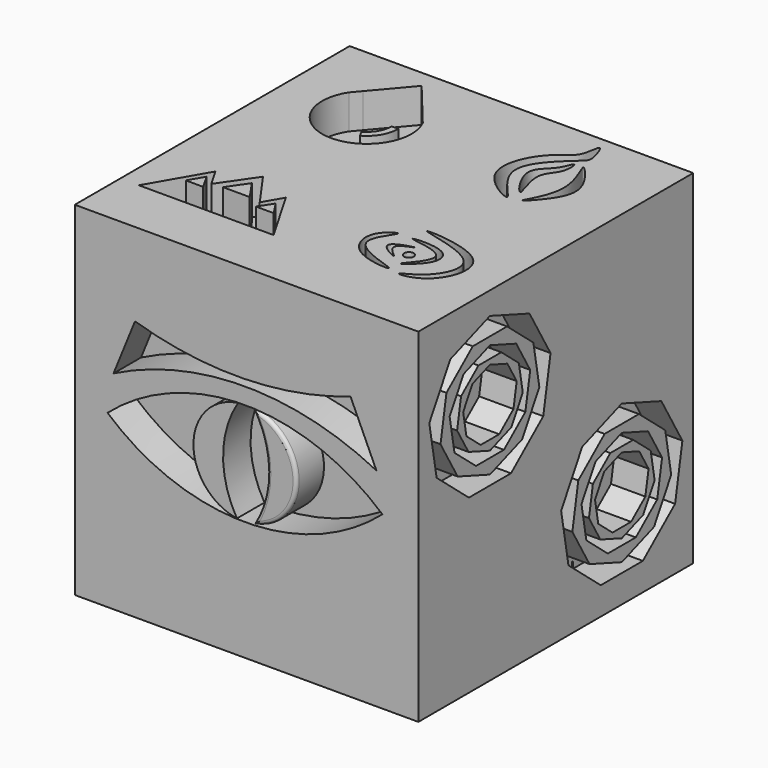
from build123d import *

# Parameters (mm, degrees)
F0_W      = 25.4
F0_H      = 25.4
F1_DEPTH  = 25.4
F3_DEPTH  = 2.54
F4_DEPTH  = 2.54
F5_R      = 3.175
F6_DEPTH  = 2.54
F7_DEPTH  = 2.54
F8_DEPTH  = 2.54
F5_R_2    = 3.8354623695
F9_DEPTH  = 2.54
F11_DEPTH = 2.54
F12_DEPTH = 2.54
F13_DEPTH = 2.54
F14_DEPTH = 2.54
F15_DEPTH = 2.54
F10_R     = 0.3534196101
F16_DEPTH = 2.54
F18_DEPTH = 2.54
F20_DEPTH = 2.54
F22_DEPTH = 2.54
F23_R     = 0.254


with BuildPart() as f1:
    # F0 (on Front) → F1 (new body)
    with BuildSketch(Plane.XZ):
        Rectangle(F0_W, F0_H)
    extrude(amount=F1_DEPTH)

    # F2 (on face) → F3 (cut)
    with BuildSketch(Plane.YZ.offset(12.7)):
        Polygon((-0.9988434482, -4.3171069854), (-2.9462418803, -0.9474646032), (-6.604, 0.3820676357), (-10.2606121317, -0.9506131794), (-12.2051088204, -4.321930884), (-11.5276384544, -8.1544084569), (-8.5451969476, -10.6547870462), (-4.6533018266, -10.6531117234), (-1.6730140731, -8.1501663908), align=None)
        Polygon((-8.1897779916, -0.949721759), (-5.0170760203, -0.9483560237), (-2.5857674278, -2.9866833261), (-2.0334885255, -6.1109476679), (-3.6186567497, -8.8592710414), (-6.5995542708, -9.9456823955), (-9.5813860101, -8.8618377847), (-11.1689197574, -6.1148801464), (-10.6193308286, -2.9901414893), align=None, mode=Mode.SUBTRACT)
        Polygon((-4.172366957, -2.4099816539), (-6.6031784625, -1.5264234312), (-6.6038436171, -1.526665852), (-6.6074442518, -1.5279781314), (-9.0337940318, -2.4122802356), (-10.325957683, -4.6514141043), (-9.8767852143, -7.1949254412), (-7.893896507, -8.8592710414), (-7.8930050053, -8.8592710414), (-7.8881778189, -8.8592710414), (-5.3059509261, -8.8592710414), (-3.3262265886, -7.1966323297), (-2.8781975889, -4.6493220377), align=None)
        Polygon((-9.2700824385, -3.764150734), (-7.6603936299, -2.4122802356), (-5.547215697, -2.4122802356), (-3.9319857353, -3.766087815), (-3.5655550782, -5.8412635472), (-4.6188241383, -7.6677295897), (-6.5987936476, -8.3893449222), (-8.5809747858, -7.6688561309), (-9.6340741167, -5.8466465206), align=None, mode=Mode.SUBTRACT)
        Polygon((-4.986011531, -3.3833646389), (-6.6037753749, -2.7959447494), (-8.2176738225, -3.3819935796), (-9.0744246758, -4.8728104899), (-8.7756506165, -6.5657603172), (-7.4592392364, -7.6685371927), (-5.7401615772, -7.6680484147), (-4.424286687, -6.5626436722), (-4.1264440975, -4.8707244605), align=None)
    extrude(amount=-F3_DEPTH, mode=Mode.SUBTRACT)

    # F2 (on face) → F4 (cut)
    with BuildSketch(Plane.YZ.offset(12.7)):
        Polygon((-13.183899352, 6.3368423997), (-15.1312977841, 9.7064847819), (-18.7890559038, 11.0360170208), (-22.4456680355, 9.7033362057), (-24.3901647241, 6.3320185012), (-23.7126943583, 2.4995409291), (-20.7302528514, -0.0008376612), (-16.8383577308, 0.0008376612), (-13.8580699769, 2.5037829943), align=None)
        Polygon((-20.3748338954, 9.7042276261), (-17.2021319241, 9.7055933615), (-14.7708233316, 7.6672660591), (-14.2185444293, 4.5430017172), (-15.8037126535, 1.7946783438), (-18.7846101748, 0.7082669894), (-21.7664419142, 1.7921116009), (-23.3539756613, 4.539069239), (-23.3532840046, 4.5430017172), (-22.8043867325, 7.6638078958), align=None, mode=Mode.SUBTRACT)
        Polygon((-16.3574228608, 8.2439677313), (-18.7882343663, 9.1275259539), (-21.2188499357, 8.2416691495), (-22.5110135869, 6.0025352809), (-22.0618411181, 3.4590239436), (-20.0789524111, 1.7946783438), (-17.4910068299, 1.7946783438), (-15.5112824924, 3.4573170554), (-15.0632534927, 6.0046273474), align=None)
        Polygon((-21.4551383425, 6.889798651), (-19.8454495338, 8.2416691495), (-17.7322716008, 8.2416691495), (-16.1170416391, 6.8878615701), (-15.750610982, 4.8126858379), (-16.8038800421, 2.9862197954), (-18.7838495514, 2.2646044629), (-20.7660306899, 2.9850932543), (-21.8191300208, 4.8073028646), align=None, mode=Mode.SUBTRACT)
        Polygon((-17.1710674348, 7.2705847461), (-18.7888312787, 7.8580046357), (-20.4027297266, 7.2719558054), (-21.2594805799, 5.7811388953), (-20.9607065207, 4.0881890681), (-19.6442951404, 2.9854121925), (-17.925217481, 2.9859009704), (-16.6093425908, 4.0913057129), (-16.3115000014, 5.7832249246), align=None)
    extrude(amount=-F4_DEPTH, mode=Mode.SUBTRACT)

    # F5 (on face) → F6 (cut)
    with BuildSketch(Plane(origin=(0, 0, 0), x_dir=(-1, 0, 0), z_dir=(0, 1, 0))):
        with Locations((0, -8.1695128638)):
            Circle(F5_R)
    extrude(amount=-F6_DEPTH, mode=Mode.SUBTRACT)

    # F5 (on face) → F7 (cut)
    with BuildSketch(Plane(origin=(0, 0, 0), x_dir=(-1, 0, 0), z_dir=(0, 1, 0))):
        with BuildLine():
            ThreePointArc((7.0750056766, -7.2597564319), (9.3200697069, -6.3298204622), (10.2500056766, -4.0847564319))
            ThreePointArc((10.2500056766, -4.0847564319), (9.3200697069, -1.8396924016), (7.0750056766, -0.9097564319))
            ThreePointArc((7.0750056766, -0.9097564319), (5.184344274, -4.0847564319), (7.0750056766, -7.2597564319))
        make_face()
    extrude(amount=-F7_DEPTH, mode=Mode.SUBTRACT)

    # F5 (on face) → F8 (cut)
    with BuildSketch(Plane(origin=(0, 0, 0), x_dir=(-1, 0, 0), z_dir=(0, 1, 0))):
        with BuildLine():
            ThreePointArc((7.0750056766, 0.9097564319), (9.3200697069, 1.8396924016), (10.2500056766, 4.0847564319))
            ThreePointArc((10.2500056766, 4.0847564319), (9.3200697069, 6.3298204622), (7.0750056766, 7.2597564319))
            ThreePointArc((7.0750056766, 7.2597564319), (8.6054638066, 4.0847564319), (7.0750056766, 0.9097564319))
        make_face()
        with BuildLine():
            ThreePointArc((-7.0750056766, 0.8936636506), (-8.8646672784, 4.0686636506), (-7.0750056766, 7.2436636506))
            ThreePointArc((-7.0750056766, 7.2436636506), (-10.2500056766, 4.0686636506), (-7.0750056766, 0.8936636506))
        make_face()
        with BuildLine():
            ThreePointArc((-7.0750056766, -7.2597564319), (-5.2999150329, -4.1864672676), (-7.0750056766, -1.1131781032))
            ThreePointArc((-7.0750056766, -1.1131781032), (-9.9541011254, -4.1864672676), (-7.0750056766, -7.2597564319))
        make_face()
    extrude(amount=-F8_DEPTH, mode=Mode.SUBTRACT)

    # F5 (on face) → F9 (cut)
    with BuildSketch(Plane(origin=(0, 0, 0), x_dir=(-1, 0, 0), z_dir=(0, 1, 0))):
        with Locations((0, 8.1695128638)):
            Circle(F5_R_2)
        with Locations((0, 8.1695128638)):
            Circle(F5_R, mode=Mode.SUBTRACT)
    extrude(amount=-F9_DEPTH, mode=Mode.SUBTRACT)

    # F10 (on face) → F11 (cut)
    with BuildSketch(Plane.XY.offset(12.7)):
        with BuildLine():
            Line((-8.5742528792, -3.9095280929), (-9.1202571541, -4.5530917385))
            ThreePointArc((-9.1202571541, -4.5530917385), (-6.5280201062, -9.6471977256), (-3.402375886, -4.8618077803))
            Line((-3.402375886, -4.8618077803), (-6.3491808251, -1.2868829072))
            Line((-6.3491808251, -1.2868829072), (-8.5742528792, -3.9095280929))
        make_face()
        with BuildLine():
            ThreePointArc((-4.0412939084, -6.3170021305), (-4.3535194393, -7.5098612191), (-5.2351171584, -8.3719418702))
            Line((-5.2351171584, -8.3719418702), (-5.4763173684, -7.9345032573))
            ThreePointArc((-5.4763173684, -7.9345032573), (-4.7854496051, -7.2589301264), (-4.5407727536, -6.3241410807))
            Line((-4.5407727536, -6.3241410807), (-4.0412939084, -6.3170021305))
        make_face(mode=Mode.SUBTRACT)
    extrude(amount=-F11_DEPTH, mode=Mode.SUBTRACT)

    # F10 (on face) → F12 (cut)
    with BuildSketch(Plane.XY.offset(12.7)):
        with BuildLine():
            add(Edge.make_bspline(
                [(6.514266599, -0.9208151023), (6.6513439889, -0.9255017563), (7.1492502014, -2.3344412071), (6.7594164358, -2.878313805), (2.7249754591, -6.0546008485), (7.8622512235, -10.1298406612), (2.4928082434, -7.3722109586), (4.5535934423, -3.1437904049), (6.3872404116, -2.6017871461), (6.3794980054, -0.9162073856), (6.514266599, -0.9208151023)],
                knots=[0, 0, 0, 0, 0.0952079057, 0.1692414801, 0.3357573904, 0.4861077215, 0.6286645245, 0.7915739584, 0.9063956824, 1, 1, 1, 1], degree=3))
        make_face()
        with BuildLine():
            add(Edge.make_bspline(
                [(8.512143977, -4.893663805), (8.9388105632, -5.6736196043), (9.0132466349, -6.9990279037), (6.2070254712, -9.9360935973), (8.9251386334, -6.298840501), (6.5095713718, -2.3583029402), (8.1212905119, -4.17917517), (8.512143977, -4.893663805)],
                knots=[0, 0, 0, 0, 0.194160521, 0.386773856, 0.600489746, 0.8221367343, 1, 1, 1, 1], degree=3))
        make_face()
    extrude(amount=-F12_DEPTH, mode=Mode.SUBTRACT)

    # F10 (on face) → F13 (cut)
    with BuildSketch(Plane.XY.offset(12.7)):
        with BuildLine():
            add(Edge.make_bspline(
                [(6.6689415835, -3.4376319963), (6.7581645519, -3.4641482008), (6.879249861, -4.8018147558), (5.4124928848, -5.6511518517), (7.1679084185, -9.4158555173), (4.3975858143, -5.5956896166), (6.2892736737, -4.6578510313), (6.5802220675, -3.4112654131), (6.6689415835, -3.4376319963)],
                knots=[0, 0, 0, 0, 0.1323987235, 0.299779387, 0.4886880534, 0.6912535604, 0.8683483539, 1, 1, 1, 1], degree=3))
        make_face()
    extrude(amount=-F13_DEPTH, mode=Mode.SUBTRACT)

    # F10 (on face) → F14 (cut)
    with BuildSketch(Plane.XY.offset(12.7)):
        Polygon((-6.1062991577, -21.1905427277), (-2.6424712398, -21.1905427277), (-1.3730111259, -21.1905427277), (-3.7396551418, -17.0913950488), (-4.5502123462, -18.4953213093), (-6.4062620513, -15.8731285483), (-8.172881227, -18.4458920859), (-8.9603448582, -17.0819650675), (-11.3324332763, -21.1905427277), (-10.0575287602, -21.1905427277), (-6.5882564401, -21.1905427277), align=None)
        Polygon((-9.5945925889, -19.0228931606), (-8.9462250471, -17.8998876363), (-8.3173429593, -19.0228931606), align=None, mode=Mode.SUBTRACT)
        Polygon((-7.3925014996, -18.3419845998), (-6.4040180927, -16.9024360533), (-5.4176610666, -18.3419845998), align=None, mode=Mode.SUBTRACT)
        Polygon((-4.3971678756, -19.047614187), (-3.7396551418, -18.0384893495), (-3.0789930026, -19.047614187), align=None, mode=Mode.SUBTRACT)
    extrude(amount=-F14_DEPTH, mode=Mode.SUBTRACT)

    # F10 (on face) → F15 (cut)
    with BuildSketch(Plane.XY.offset(12.7)):
        with BuildLine():
            add(Edge.make_bspline(
                [(6.5628429875, -19.3925332278), (6.5927190164, -19.2455515743), (9.1957478158, -16.8020355907), (3.5076865955, -16.5938681483), (7.7496461926, -16.2268203823), (8.3928634429, -18.1733573423), (6.536200218, -19.5236081549), (6.5628429875, -19.3925332278)],
                knots=[0, 0, 0, 0, 0.2088867171, 0.4327537544, 0.6354838649, 0.8137195319, 1, 1, 1, 1], degree=3))
        make_face()
        with BuildLine():
            add(Edge.make_bspline(
                [(6.0491636395, -17.2871630639), (6.0185725192, -17.2666105372), (3.3186002414, -17.8624396864), (6.6096249063, -19.4014347707), (4.0770833099, -17.833659238), (6.075940198, -17.3051527918), (6.0491636395, -17.2871630639)],
                knots=[0, 0, 0, 0, 0.2754169977, 0.5298782425, 0.7589261438, 1, 1, 1, 1], degree=3))
        make_face()
        with BuildLine():
            add(Edge.make_bspline(
                [(4.1144147847, -16.5605154282), (4.0881231841, -16.4229092146), (2.4974664498, -17.3437282382), (3.3297749271, -20.2642463284), (8.4058552204, -20.4760305276), (1.7839988733, -19.1625405048), (4.148922959, -16.7411259307), (4.1144147847, -16.5605154282)],
                knots=[0, 0, 0, 0, 0.1464746383, 0.3576674378, 0.563834391, 0.8077495387, 1, 1, 1, 1], degree=3))
        make_face()
        with BuildLine():
            add(Edge.make_bspline(
                [(7.2844545357, -20.4364769161), (7.3307985165, -20.5306783928), (9.5095391783, -20.3469640928), (11.2250536793, -15.4106262616), (2.1899094427, -15.0022667743), (10.6978747849, -16.1389401376), (8.8807699828, -19.7908268843), (7.2414077171, -20.3489774434), (7.2844545357, -20.4364769161)],
                knots=[0, 0, 0, 0, 0.1277247832, 0.312107096, 0.5167032139, 0.7165806441, 0.8813622507, 1, 1, 1, 1], degree=3))
        make_face()
    extrude(amount=-F15_DEPTH, mode=Mode.SUBTRACT)

    # F10 (on face) → F16 (cut)
    with BuildSketch(Plane.XY.offset(12.7)):
        with Locations((6.2809800729, -18.2520523667)):
            Circle(F10_R)
    extrude(amount=-F16_DEPTH, mode=Mode.SUBTRACT)

    # F17 (on face) → F18 (cut)
    with BuildSketch(Plane(origin=(0, 0, -12.7), x_dir=(1, 0, 0), z_dir=(0, 0, -1))):
        Polygon((7.9997783942, 4.1275), (7.4498522628, 5.08), (6.8999261314, 4.1275), align=None)
        Polygon((6.35, 3.175), (5.8000738686, 2.2225), (6.8999261314, 2.2225), align=None)
        Polygon((5.2501477372, 5.08), (4.7002216058, 4.1275), (5.8000738686, 4.1275), align=None)
        Polygon((4.1502954744, 6.985), (3.600369343, 6.0325), (4.7002216058, 6.0325), align=None)
        Polygon((5.8000738686, 7.9375), (5.2501477372, 8.89), (4.7002216058, 7.9375), align=None)
        Polygon((3.600369343, 7.9375), (3.0504432116, 8.89), (2.5005170802, 7.9375), align=None)
        Polygon((7.9997783942, 7.9375), (7.4498522628, 8.89), (6.8999261314, 7.9375), align=None)
        Polygon((8.5497045256, 6.985), (7.9997783942, 6.0325), (9.099630657, 6.0325), align=None)
        Polygon((10.1994829198, 7.9375), (9.6495567884, 8.89), (9.099630657, 7.9375), align=None)
        Polygon((0.0395720417, 9.3939816849), (-0.5103540897, 8.4414816849), (0.5894981731, 8.4414816849), align=None)
        Polygon((1.6893504359, 10.3464816849), (1.1394243045, 11.2989816849), (0.5894981731, 10.3464816849), align=None)
        Polygon((-1.0602802211, 11.2989816849), (-1.6102063525, 10.3464816849), (-0.5103540897, 10.3464816849), align=None)
        Polygon((-2.1601324839, 13.2039816849), (-2.7100586153, 12.2514816849), (-1.6102063525, 12.2514816849), align=None)
        Polygon((-0.5103540897, 14.1564816849), (-1.0602802211, 15.1089816849), (-1.6102063525, 14.1564816849), align=None)
        Polygon((-2.7100586153, 14.1564816849), (-3.2599847467, 15.1089816849), (-3.8099108781, 14.1564816849), align=None)
        Polygon((2.2392765673, 13.2039816849), (1.6893504359, 12.2514816849), (2.7892026987, 12.2514816849), align=None)
        Polygon((3.8890549615, 14.1564816849), (3.3391288301, 15.1089816849), (2.7892026987, 14.1564816849), align=None)
        Polygon((1.6893504359, 14.1564816849), (1.1394243045, 15.1089816849), (0.5894981731, 14.1564816849), align=None)
        Polygon((-6.3128694892, 15.757849467), (-6.8627956206, 14.805349467), (-5.7629433578, 14.805349467), align=None)
        Polygon((-4.663091095, 16.710349467), (-5.2130172264, 17.662849467), (-5.7629433578, 16.710349467), align=None)
        Polygon((-7.412721752, 17.662849467), (-7.9626478834, 16.710349467), (-6.8627956206, 16.710349467), align=None)
        Polygon((-8.5125740148, 19.567849467), (-9.0625001462, 18.615349467), (-7.9626478834, 18.615349467), align=None)
        Polygon((-6.8627956206, 20.520349467), (-7.412721752, 21.472849467), (-7.9626478834, 20.520349467), align=None)
        Polygon((-9.0625001462, 20.520349467), (-9.6124262776, 21.472849467), (-10.162352409, 20.520349467), align=None)
        Polygon((-4.1131649636, 19.567849467), (-4.663091095, 18.615349467), (-3.5632388322, 18.615349467), align=None)
        Polygon((-2.4633865694, 20.520349467), (-3.0133127008, 21.472849467), (-3.5632388322, 20.520349467), align=None)
        Polygon((-4.663091095, 20.520349467), (-5.2130172264, 21.472849467), (-5.7629433578, 20.520349467), align=None)
        Polygon((-5.2130172264, 19.567849467), (-7.412721752, 19.567849467), (-6.3128694892, 17.662849467), align=None)
        Polygon((1.1394243045, 13.2039816849), (-1.0602802211, 13.2039816849), (0.0395720417, 11.2989816849), align=None)
        Polygon((7.4498522628, 6.985), (5.2501477372, 6.985), (6.35, 5.08), align=None)
    extrude(amount=-F18_DEPTH, mode=Mode.SUBTRACT)

    # F19 (on face) → F20 (cut)
    with BuildSketch(Plane(origin=(-12.7, 0, 0), x_dir=(0, -1, 0), z_dir=(-1, 0, 0))):
        with BuildLine():
            Line((13.0120367011, -7.3854063755), (10.1508104952, -8.3150751252))
            Line((10.1508104952, -8.3150751252), (8.3824754505, -5.8811707403))
            ThreePointArc((8.3824754505, -5.8811707403), (9.2211417456, -11.1763013311), (13.0120367011, -7.3854063755))
        make_face()
        with BuildLine():
            Line((5.9142498672, -2.4839496718), (4.1095547932, 0))
            Line((4.1095547932, 0), (5.9142498672, 2.4839496718))
            ThreePointArc((5.9142498672, 2.4839496718), (1.0392241462, 0), (5.9142498672, -2.4839496718))
        make_face()
        with BuildLine():
            Line((8.3822870719, 5.8809114593), (10.1508104952, 8.3150751252))
            Line((10.1508104952, 8.3150751252), (13.0123415042, 7.385307339))
            ThreePointArc((13.0123415042, 7.385307339), (9.2210427091, 11.1766061341), (8.3822870719, 5.8809114593))
        make_face()
        with BuildLine():
            Line((16.7314873656, 6.1768835955), (19.9257675558, 5.1389990464))
            Line((19.9257675558, 5.1389990464), (19.9257675558, 1.7803340928))
            ThreePointArc((19.9257675558, 1.7803340928), (22.6429845817, 7.1131727735), (16.7314873656, 6.1768835955))
        make_face()
        with BuildLine():
            Line((19.9257675558, -1.9751859212), (19.9257675558, -5.1389990464))
            Line((19.9257675558, -5.1389990464), (16.9168024668, -6.1166710691))
            ThreePointArc((16.9168024668, -6.1166710691), (22.4853461411, -6.9986417424), (19.9257675558, -1.9751859212))
        make_face()
    extrude(amount=-F20_DEPTH, mode=Mode.SUBTRACT)

    # F21 (on face) → F22 (cut)
    with BuildSketch(Plane.XZ.offset(25.4)):
        with BuildLine():
            ThreePointArc((-10.2794213026, -0.0544717133), (-0.1194213026, -3.8644717133), (10.0405786974, -0.0544717133))
            ThreePointArc((10.0405786974, -0.0544717133), (-0.1194213026, 3.7555282867), (-10.2794213026, -0.0544717133))
        make_face()
        with BuildLine():
            ThreePointArc((-0.7111397258, -3.818242337), (-3.9292133758, -0.0146677121), (-0.6323727882, 3.7208402968))
            ThreePointArc((-0.6323727882, 3.7208402968), (-1.7366666321, -0.0375750339), (-0.7111397258, -3.818242337))
        make_face(mode=Mode.SUBTRACT)
        with BuildLine():
            ThreePointArc((0.4131438292, 3.7181234651), (3.690354592, -0.0131481948), (0.4948493631, -3.8146275012))
            ThreePointArc((0.4948493631, -3.8146275012), (1.5451289534, -0.0364168263), (0.4131438292, 3.7181234651))
        make_face(mode=Mode.SUBTRACT)
        with BuildLine():
            ThreePointArc((-9.8363966122, 2.6550186558), (-0.1189433571, 4.9679857382), (9.5980751659, 2.6531929804))
            Line((9.5980751659, 2.6531929804), (7.6851410351, 6.8454862975))
            ThreePointArc((7.6851410351, 6.8454862975), (-0.259153738, 5.4421754892), (-8.2480561563, 6.5640216541))
            Line((-8.2480561563, 6.5640216541), (-9.8363966122, 2.6550186558))
        make_face()
    extrude(amount=-F22_DEPTH, mode=Mode.SUBTRACT)

    # F23
    f23_edges = [f1.edges().sort_by_distance(p)[0] for p in [
        (1.545129, -25.4, -0.036417),
        (3.690355, -25.4, -0.013148),
    ]]
    fillet(f23_edges, radius=F23_R)


solid = f1.part
